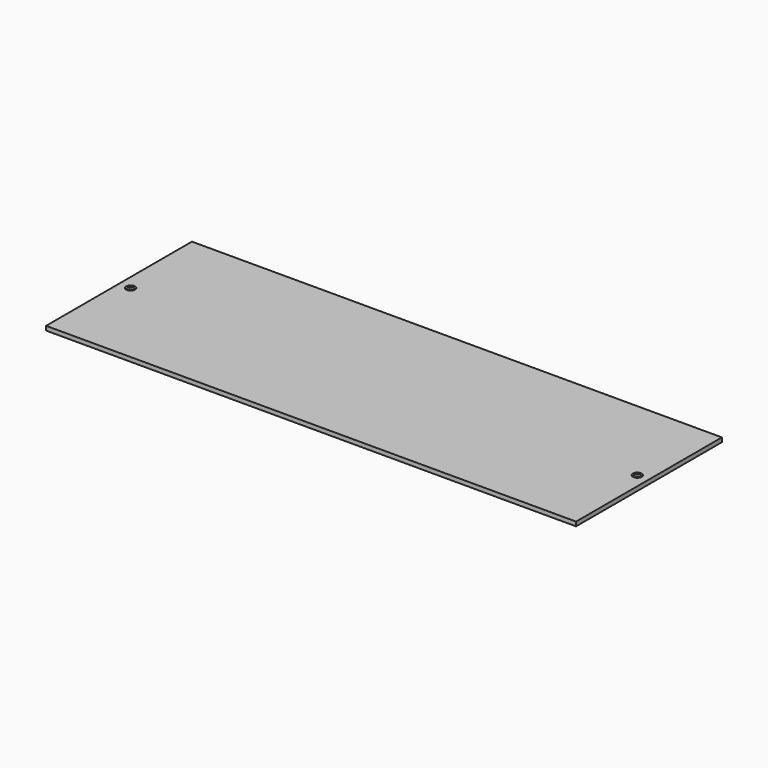
from build123d import *

# Parameters (mm, degrees)
F0_W     = 250
F0_H     = 86
F0_R     = 1.6
F1_DEPTH = 2
F2_SIZE  = 0.5


with BuildPart() as f1:
    # F0 (on Top) → F1 (new body)
    with BuildSketch(Plane.XY):
        Rectangle(F0_W, F0_H)
        with Locations((-119.5, 0)):
            Circle(F0_R, mode=Mode.SUBTRACT)
        with Locations((119.5, 0)):
            Circle(F0_R, mode=Mode.SUBTRACT)
    extrude(amount=F1_DEPTH)

    # F2
    f2_edges = [f1.edges().sort_by_distance(p)[0] for p in [
        (-117.9, 0, 1),
        (-121.1, 0, 0),
        (-121.1, 0, 2),
        (121.1, 0, 1),
        (117.9, 0, 0),
        (117.9, 0, 2),
    ]]
    chamfer(f2_edges, length=F2_SIZE)


solid = f1.part
